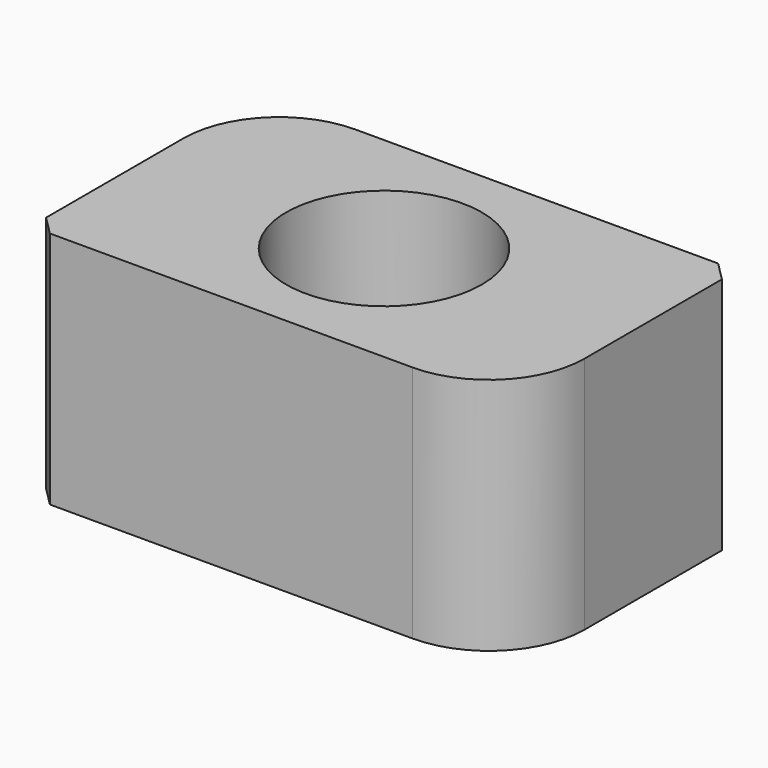
from build123d import *

# Parameters (mm, degrees)
CYLINDER_R     = 2.05
CYLINDER_DEPTH = 10
BOX_W          = 10
BOX_H          = 6
BOX_DEPTH      = 5
FILLET_R       = 2
CHAMFER_SIZE   = 0.4


with BuildPart() as cylinder:
    # Cylinder → Cylinder (new body)
    with BuildSketch(Plane.XY):
        Circle(CYLINDER_R)
    extrude(amount=CYLINDER_DEPTH)


with BuildPart() as cut:
    # Box → Box (new body)
    with BuildSketch(Plane(origin=(-5, -3, 0), x_dir=(1, 0, 0), z_dir=(0, 0, 1))):
        with Locations((5, 3)):
            Rectangle(BOX_W, BOX_H)
    extrude(amount=BOX_DEPTH)

    # Fillet
    fillet_edges = [cut.edges().sort_by_distance(p)[0] for p in [
        (-5, 3, 2.5),
        (5, -3, 2.5),
    ]]
    fillet(fillet_edges, radius=FILLET_R)

    # Chamfer
    chamfer_edges = [cut.edges().sort_by_distance(p)[0] for p in [
        (-5, -3, 2.5),
        (5, 3, 2.5),
    ]]
    chamfer(chamfer_edges, length=CHAMFER_SIZE)

    # Cut: cut Cylinder
    add(cylinder.part, mode=Mode.SUBTRACT)


solid = cut.part
